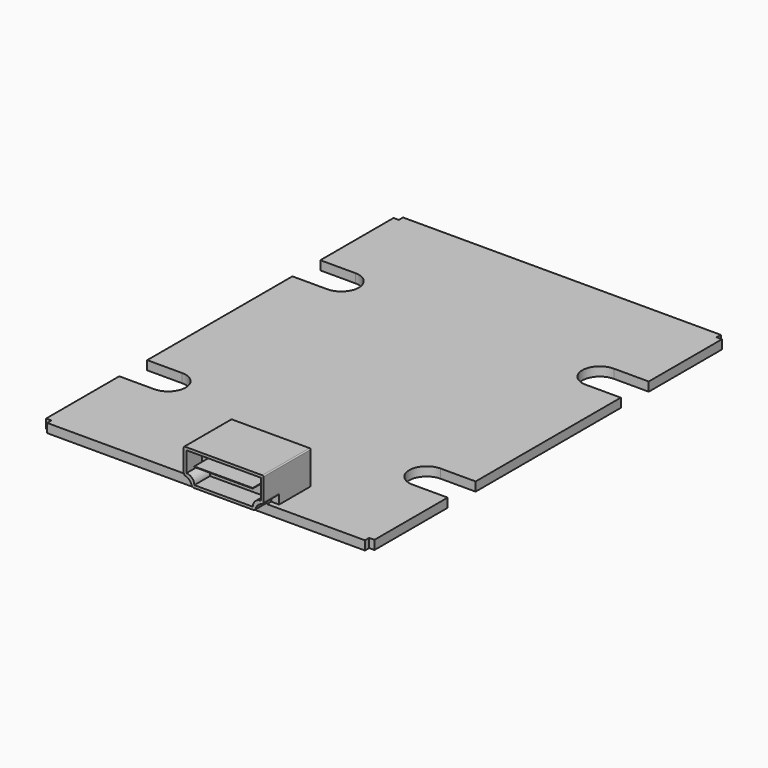
from build123d import *

# Parameters (mm, degrees)
PAD_DEPTH       = 1.7
SKETCH006_W     = 15.05
SKETCH006_H     = 11.12
PAD005_DEPTH    = 6.31
SKETCH012_W     = 11.05
SKETCH012_H     = 0.1
POCKET001_DEPTH = 3.7
FILLET002_R     = 0.2
FILLET003_R     = 0.2
FILLET010_R     = 0.5


with BuildPart() as part:
    # Sketch → Pad (new body)
    with BuildSketch(Plane.XY):
        with BuildLine():
            Line((0, 0), (30, 0))
            Line((30, 0), (30, 1))
            Line((30, 1), (31, 1))
            Line((31, 1), (31, 18.27))
            Line((31, 18.27), (24.4, 18.27))
            ThreePointArc((24.4, 24.87), (21.1, 21.57), (24.4, 18.27))
            Line((24.4, 24.87), (31, 24.87))
            Line((31, 24.87), (31, 59.13))
            Line((31, 59.13), (24.4, 59.13))
            ThreePointArc((24.4, 65.73), (21.1, 62.43), (24.4, 59.13))
            Line((24.4, 65.73), (31, 65.73))
            Line((31, 65.73), (31, 83))
            Line((30, 83), (31, 83))
            Line((30, 84), (30, 83))
            Line((30, 84), (0, 84))
            Line((0, 84), (-30, 84))
            Line((-30, 84), (-30, 83))
            Line((-30, 83), (-31, 83))
            Line((-31, 83), (-31, 65.73))
            Line((-31, 65.73), (-24.4, 65.73))
            ThreePointArc((-24.4, 59.13), (-21.1, 62.43), (-24.4, 65.73))
            Line((-24.4, 59.13), (-31, 59.13))
            Line((-31, 59.13), (-31, 24.87))
            Line((-31, 24.87), (-24.4, 24.87))
            ThreePointArc((-24.4, 18.27), (-21.1, 21.57), (-24.4, 24.87))
            Line((-24.4, 18.27), (-31, 18.27))
            Line((-31, 18.27), (-31, 1))
            Line((-31, 1), (-30, 1))
            Line((-30, 1), (-30, 0))
            Line((-30, 0), (0, 0))
        make_face()
    extrude(amount=PAD_DEPTH)

    # Sketch006 → Pad005 (new body)
    with BuildSketch(Plane.XY.offset(1.7)):
        with Locations((5.475, 2.86)):
            Rectangle(SKETCH006_W, SKETCH006_H)
    extrude(amount=PAD005_DEPTH)

    # Sketch012 → Pocket001 (cut)
    with BuildSketch(Plane.XZ.offset(2.7)):
        with BuildLine():
            Line((-2.05, 1.7), (-2.05, 3.2))
            ThreePointArc((-0.55, 1.7), (-0.98934, 2.76066), (-2.05, 3.2))
            Line((-2.05, 1.7), (-0.55, 1.7))
        make_face()
        with BuildLine():
            Line((13, 3.2), (13, 1.7))
            Line((13, 1.7), (11.5, 1.7))
            ThreePointArc((13, 3.2), (11.93934, 2.76066), (11.5, 1.7))
        make_face()
        with BuildLine():
            Line((-1.55, 7.51), (12.5, 7.51))
            Line((12.5, 7.51), (12.5, 3.7))
            ThreePointArc((12.5, 3.7), (11.43934, 3.26066), (11, 2.2))
            Line((11, 2.2), (-0.05, 2.2))
            ThreePointArc((-0.05, 2.2), (-0.48934, 3.26066), (-1.55, 3.7))
            Line((-1.55, 3.7), (-1.55, 7.51))
        make_face()
        with Locations((5.44813, 5.25)):
            Rectangle(SKETCH012_W, SKETCH012_H, mode=Mode.SUBTRACT)
    extrude(amount=-POCKET001_DEPTH, mode=Mode.SUBTRACT)

    # Fillet002
    fillet002_edges = [part.edges().sort_by_distance(p)[0] for p in [
        (13, 2.86, 8.01),
    ]]
    fillet(fillet002_edges, radius=FILLET002_R)

    # Fillet003
    fillet003_edges = [part.edges().sort_by_distance(p)[0] for p in [
        (-2.05, 2.86, 8.01),
    ]]
    fillet(fillet003_edges, radius=FILLET003_R)

    # Fillet010
    fillet010_edges = [part.edges().sort_by_distance(p)[0] for p in [
        (-0.55, -1.35, 1.7),
        (-2.05, -0.85, 3.2),
        (13, -0.85, 3.2),
        (11.5, -1.35, 1.7),
    ]]
    fillet(fillet010_edges, radius=FILLET010_R)


solid = part.part
